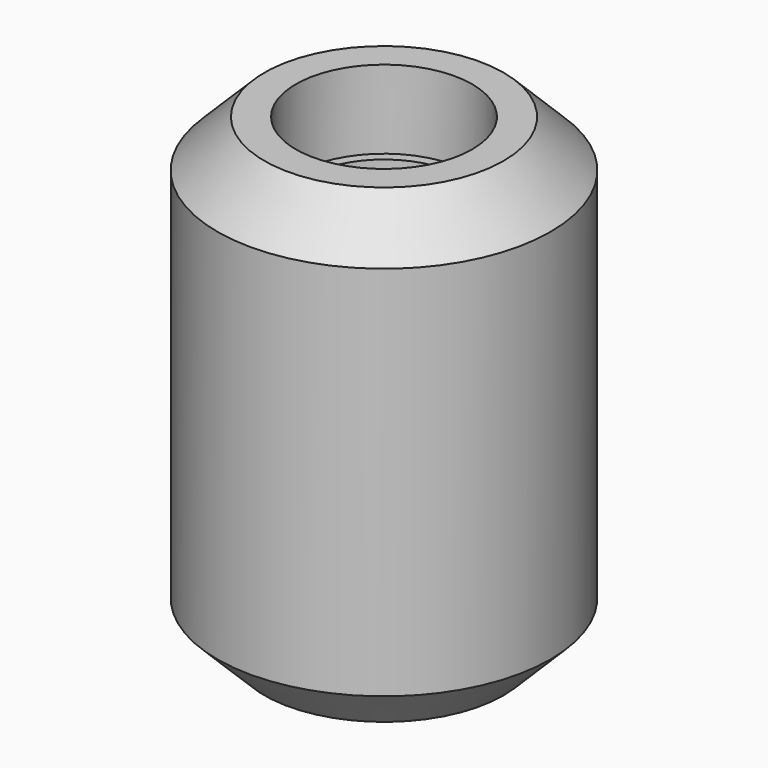
from build123d import *

# Parameters (mm, degrees)
F0_R          = 14.2875
F0_R_2        = 12.7
F2_DEPTH      = 50.8
F3_R          = 26.9875
F3_R_2        = 14.2875
F4_DEPTH      = 63.5
F4_DEPTH_BACK = 12.7
F5_SIZE       = 7.62


with BuildPart() as f2:
    # F0 (on Top) → F2 (new body)
    with BuildSketch(Plane.XY):
        Circle(F0_R)
        Circle(F0_R_2, mode=Mode.SUBTRACT)
    extrude(amount=F2_DEPTH)

    # F3 (on face) → F4 (join, two sides)
    with BuildSketch(Plane.XY) as f4_sk:
        Circle(F3_R)
        Circle(F3_R_2, mode=Mode.SUBTRACT)
    extrude(amount=F4_DEPTH)
    extrude(f4_sk.sketch, amount=-F4_DEPTH_BACK)

    # F5
    f5_edges = [f2.edges().sort_by_distance(p)[0] for p in [
        (-26.9875, 0, 63.5),
        (-26.9875, 0, -12.7),
    ]]
    chamfer(f5_edges, length=F5_SIZE)


solid = f2.part
